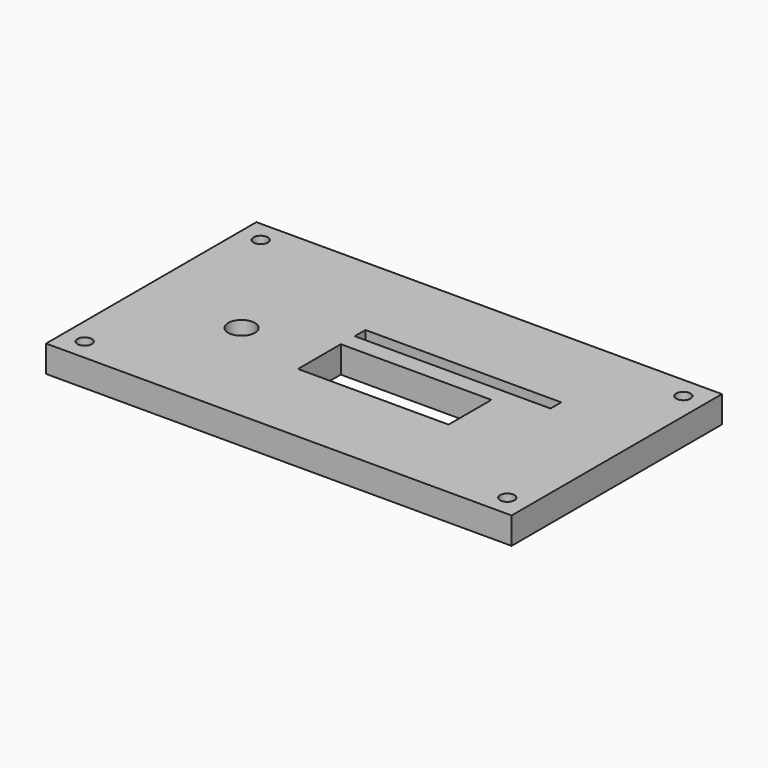
from build123d import *

# Parameters (mm, degrees)
F0_W     = 260.748
F0_H     = 147.25
F0_R     = 4
F0_R_2   = 7.5
F0_W_2   = 84.36
F0_H_2   = 30
F0_W_3   = 109.668
F0_H_3   = 7.5
F1_DEPTH = 15


with BuildPart() as f1:
    # F0 (on Top) → F1 (new body)
    with BuildSketch(Plane.XY):
        with Locations((130.374, 73.625)):
            Rectangle(F0_W, F0_H)
        with Locations((12, 12)):
            Circle(F0_R, mode=Mode.SUBTRACT)
        with Locations((57.5, 65)):
            Circle(F0_R_2, mode=Mode.SUBTRACT)
        with Locations((248.748, 12)):
            Circle(F0_R, mode=Mode.SUBTRACT)
        with Locations((143.26, 65)):
            Rectangle(F0_W_2, F0_H_2, mode=Mode.SUBTRACT)
        with Locations((12, 135.25)):
            Circle(F0_R, mode=Mode.SUBTRACT)
        with Locations((155.914, 93.5)):
            Rectangle(F0_W_3, F0_H_3, mode=Mode.SUBTRACT)
        with Locations((248.748, 135.25)):
            Circle(F0_R, mode=Mode.SUBTRACT)
    extrude(amount=F1_DEPTH)


solid = f1.part
